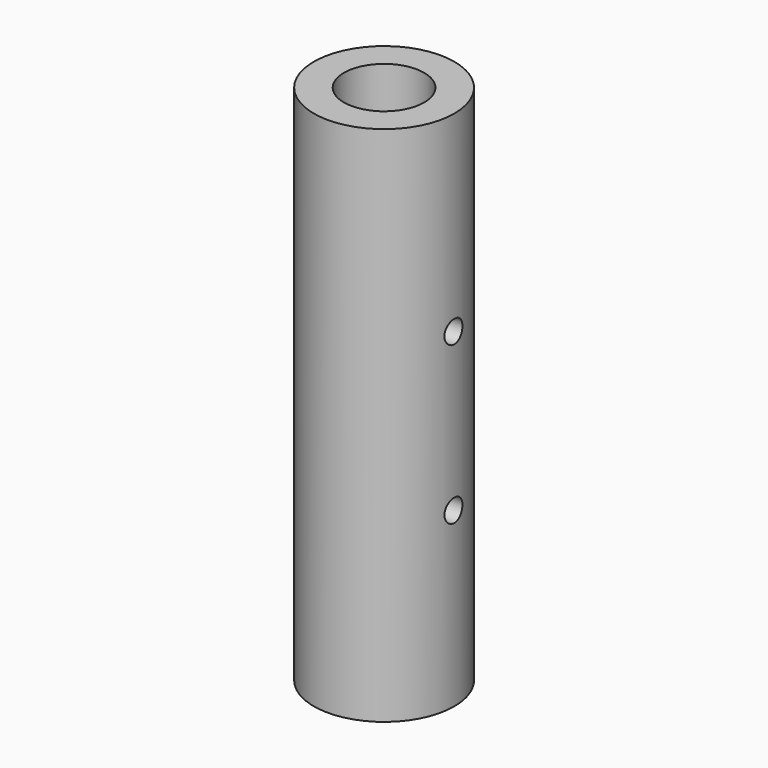
from build123d import *

# Parameters (mm, degrees)
F0_R     = 11.1125
F1_DEPTH = 41.275
F2_R     = 6.35
F3_DEPTH = 82.55
F4_R     = 1.778
F5_DEPTH = 11.1125
F6_R     = 1.778
F7_DEPTH = 11.1125


with BuildPart() as f1:
    # F0 (on Top) → F1 (new body, symmetric)
    with BuildSketch(Plane.XY):
        Circle(F0_R)
    extrude(amount=F1_DEPTH, both=True)

    # F2 (on face) → F3 (cut, through all)
    with BuildSketch(Plane.XY.offset(41.275)):
        Circle(F2_R)
    extrude(amount=-F3_DEPTH, mode=Mode.SUBTRACT)

    # F4 (on Right) → F5 (cut, symmetric)
    with BuildSketch(Plane.YZ):
        with Locations((0, 10.922)):
            Circle(F4_R)
    extrude(amount=F5_DEPTH, both=True, mode=Mode.SUBTRACT)

    # F6 (on Right) → F7 (cut, symmetric)
    with BuildSketch(Plane.YZ):
        with Locations((0, -13.97)):
            Circle(F6_R)
    extrude(amount=F7_DEPTH, both=True, mode=Mode.SUBTRACT)


solid = f1.part
